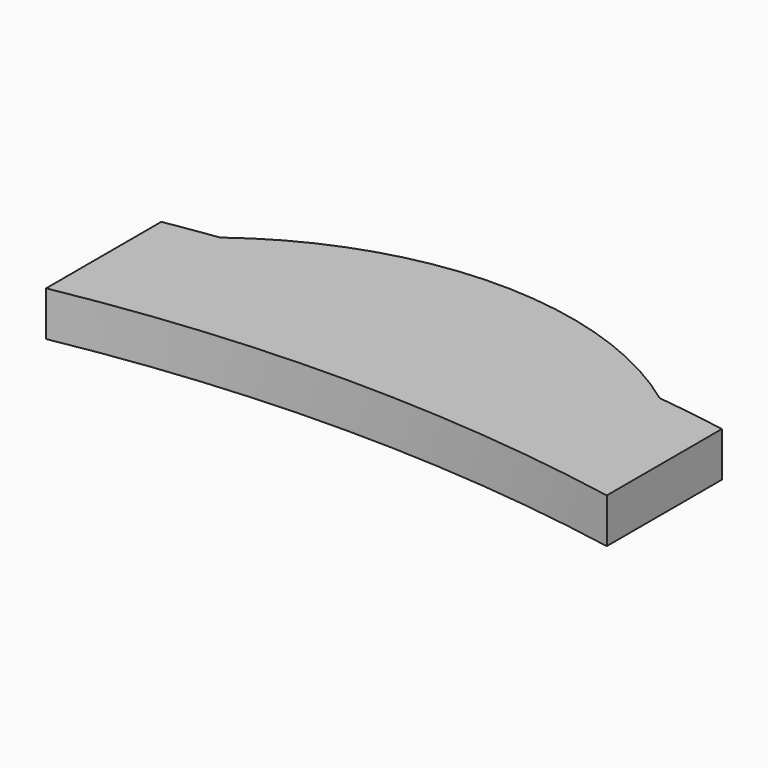
from build123d import *

# Parameters (mm, degrees)
PAD_DEPTH = 2


with BuildPart() as part:
    # Sketch → Pad (new body)
    with BuildSketch(Plane.XY):
        with BuildLine():
            ThreePointArc((25.1, 17.6), (12.55, 18.755091), (0, 17.6))
            Line((0, 24.043957), (0, 17.6))
            ThreePointArc((2.355405, 24.40484), (1.176271, 24.233741), (0, 24.043957))
            ThreePointArc((21.942711, 24.510315), (12.131582, 27.703085), (2.355405, 24.40484))
            ThreePointArc((25.1, 24.043957), (23.523833, 24.293909), (21.942711, 24.510315))
            Line((25.1, 24.043957), (25.1, 17.6))
        make_face()
    extrude(amount=PAD_DEPTH)


solid = part.part
